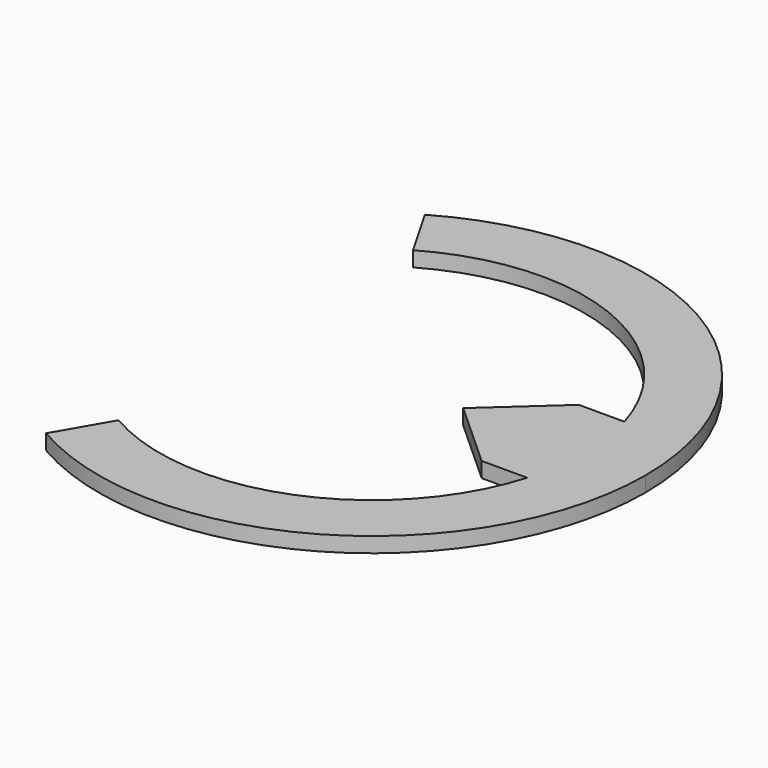
from build123d import *

# Parameters (mm, degrees)
F2_DEPTH = 5
F4_DEPTH = 5


with BuildPart() as f2:
    # F1 (on Top) → F2 (new body)
    with BuildSketch(Plane.XY):
        with BuildLine():
            ThreePointArc((90, 0), (45, 77.942286), (-45, 77.942286))
            Line((-45, 77.942286), (-35, 60.621778))
            ThreePointArc((-35, 60.621778), (35, 60.621778), (70, 0))
            ThreePointArc((70, 0), (35, -60.621778), (-35, -60.621778))
            Line((-35, -60.621778), (-45, -77.942286))
            ThreePointArc((-45, -77.942286), (45, -77.942286), (90, 0))
        make_face()
    extrude(amount=F2_DEPTH)

    # F3 (on face) → F4 (join, through all)
    with BuildSketch(Plane.XY.offset(5)):
        with BuildLine():
            Line((87.749644, 20), (67.082039, 20))
            ThreePointArc((67.082039, 20), (70, 0), (67.082039, -20))
            Line((67.082039, -20), (87.749644, -20))
            ThreePointArc((87.749644, -20), (90, 0), (87.749644, 20))
        make_face()
        with BuildLine():
            ThreePointArc((67.082039, -20), (70, 0), (67.082039, 20))
            Line((67.082039, 20), (52.082039, 20))
            Line((52.082039, 20), (30, 0))
            Line((30, 0), (52.082039, -20))
            Line((52.082039, -20), (67.082039, -20))
        make_face()
    extrude(amount=-F4_DEPTH)


solid = f2.part
